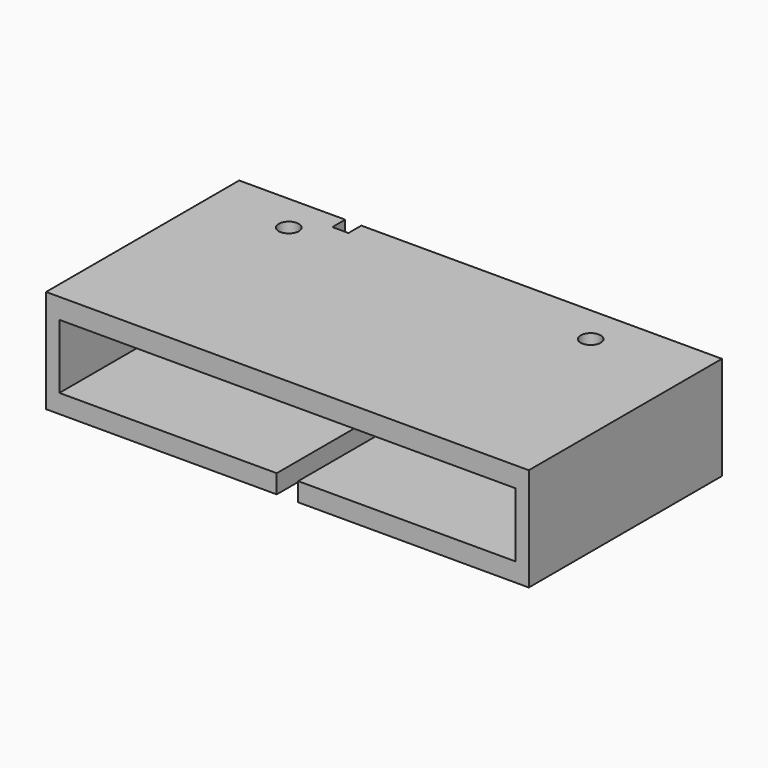
from build123d import *

# Parameters (mm, degrees)
F0_W      = 90
F0_H      = 19.25
F0_W_2    = 85
F0_H_2    = 12
F1_DEPTH  = 45
F0_W_3    = 7.85
F0_H_3    = 4.66
F2_DEPTH  = 14
F0_R      = 1.5
F3_DEPTH  = 8
F5_W      = 4
F5_H      = 29.0582341515
F6_DEPTH  = 3.07077
F5_H_2    = 15.9417658485
F7_DEPTH  = 8.2825263962
F11_DEPTH = 23.33121
F12_DEPTH = 2.5
F14_W     = 3
F14_H     = 4.4074529409
F14_W_2   = 3.907799057
F14_H_2   = 3
F15_DEPTH = 3


with BuildPart() as f1:
    # F0 (on Front) → F1 (new body)
    with BuildSketch(Plane.XZ):
        with Locations((-17.1932545304, 37.9297346771)):
            Rectangle(F0_W, F0_H)
        with Locations((-17.2074458234, 37.7867133319)):
            Rectangle(F0_W_2, F0_H_2, mode=Mode.SUBTRACT)
    extrude(amount=F1_DEPTH)

    # F0 (on Front) → F2 (join)
    with BuildSketch(Plane.XZ):
        with Locations((-17.2074458234, 37.7867133319)):
            Rectangle(F0_W_2, F0_H_2)
        with Locations((-17.2074458234, 37.7867133319)):
            Rectangle(F0_W_3, F0_H_3, mode=Mode.SUBTRACT)
    extrude(amount=F2_DEPTH)

    # F0 (on Front) → F3 (join)
    with BuildSketch(Plane.XZ):
        with Locations((-17.2074458234, 37.7867133319)):
            Rectangle(F0_W_3, F0_H_3)
        with Locations((-17.2074458234, 37.7867133319)):
            Circle(F0_R, mode=Mode.SUBTRACT)
    extrude(amount=F3_DEPTH)

    # F5 (on offset) → F6 (cut)
    with BuildSketch(Plane(origin=(0, 0, 28.3047346771), x_dir=(1, 0, 0), z_dir=(0, 0, -1))):
        with Locations((-17.1932545304, 30.4708829243)):
            Rectangle(F5_W, F5_H)
    extrude(amount=-F6_DEPTH, mode=Mode.SUBTRACT)

    # F5 (on offset) → F7 (cut)
    with BuildSketch(Plane(origin=(0, 0, 28.3047346771), x_dir=(1, 0, 0), z_dir=(0, 0, -1))):
        with Locations((-17.1932545304, 30.4708829243)):
            Rectangle(F5_W, F5_H)
        with Locations((-17.1932545304, 7.9708829243)):
            Rectangle(F5_W, F5_H_2)
    extrude(amount=-F7_DEPTH, mode=Mode.SUBTRACT)

    # F10 (on offset) → F11 (cut)
    with BuildSketch(Plane(origin=(0, 0, 28.3047346771), x_dir=(1, 0, 0), z_dir=(0, 0, -1))):
        with BuildLine():
            Line((-49.1650958551, 7.0774606429), (-45.4150958551, 7.0774606429))
            ThreePointArc((-45.4150958551, 7.0774606429), (-47.2900958551, 8.9524606429), (-49.1650958551, 7.0774606429))
        make_face()
        with BuildLine():
            ThreePointArc((-49.1650958551, 7.0774606429), (-47.2900958551, 5.2024606429), (-45.4150958551, 7.0774606429))
            Line((-45.4150958551, 7.0774606429), (-49.1650958551, 7.0774606429))
        make_face()
        with BuildLine():
            ThreePointArc((10.8743589147, 7.0774606429), (8.9993589147, 8.9524606429), (7.1243589147, 7.0774606429))
            Line((7.1243589147, 7.0774606429), (10.8743589147, 7.0774606429))
        make_face()
        with BuildLine():
            Line((10.8743589147, 7.0774606429), (7.1243589147, 7.0774606429))
            ThreePointArc((7.1243589147, 7.0774606429), (8.9993589147, 5.2024606429), (10.8743589147, 7.0774606429))
        make_face()
    extrude(amount=-F11_DEPTH, mode=Mode.SUBTRACT)

    # F10 (on offset) → F12 (cut)
    with BuildSketch(Plane(origin=(0, 0, 28.3047346771), x_dir=(1, 0, 0), z_dir=(0, 0, -1))):
        with BuildLine():
            Line((7.1243589147, 7.0774606429), (5.4493589147, 7.0774606429))
            ThreePointArc((5.4493589147, 7.0774606429), (8.9993589147, 3.5274606429), (12.5493589147, 7.0774606429))
            Line((12.5493589147, 7.0774606429), (10.8743589147, 7.0774606429))
            ThreePointArc((10.8743589147, 7.0774606429), (8.9993589147, 5.2024606429), (7.1243589147, 7.0774606429))
        make_face()
        with BuildLine():
            ThreePointArc((12.5493589147, 7.0774606429), (8.9993589147, 10.6274606429), (5.4493589147, 7.0774606429))
            Line((5.4493589147, 7.0774606429), (7.1243589147, 7.0774606429))
            ThreePointArc((7.1243589147, 7.0774606429), (8.9993589147, 8.9524606429), (10.8743589147, 7.0774606429))
            Line((10.8743589147, 7.0774606429), (12.5493589147, 7.0774606429))
        make_face()
        with BuildLine():
            Line((-43.7400958551, 7.0774606429), (-45.4150958551, 7.0774606429))
            ThreePointArc((-45.4150958551, 7.0774606429), (-47.2900958551, 5.2024606429), (-49.1650958551, 7.0774606429))
            Line((-49.1650958551, 7.0774606429), (-50.8400958551, 7.0774606429))
            ThreePointArc((-50.8400958551, 7.0774606429), (-47.2900958551, 3.5274606429), (-43.7400958551, 7.0774606429))
        make_face()
        with BuildLine():
            ThreePointArc((-49.1650958551, 7.0774606429), (-47.2900958551, 8.9524606429), (-45.4150958551, 7.0774606429))
            Line((-45.4150958551, 7.0774606429), (-43.7400958551, 7.0774606429))
            ThreePointArc((-43.7400958551, 7.0774606429), (-47.2900958551, 10.6274606429), (-50.8400958551, 7.0774606429))
            Line((-50.8400958551, 7.0774606429), (-49.1650958551, 7.0774606429))
        make_face()
    extrude(amount=-F12_DEPTH, mode=Mode.SUBTRACT)

    # F14 (on face) → F15 (cut)
    with BuildSketch(Plane.XZ):
        Polygon((-21.1324458234, 36.2700645477), (-21.1324458234, 39.2700645477), (-39.4217026339, 39.2700645477), (-39.4217026339, 43.7867133319), (-42.4217026339, 43.7867133319), (-42.4217026339, 39.2700645477), (-42.4217026339, 36.2700645477), (-39.4217026339, 36.2700645477), align=None)
        with Locations((-40.9217026339, 45.9904398024)):
            Rectangle(F14_W, F14_H)
        with Locations((-19.1785462949, 37.7700645477)):
            Rectangle(F14_W_2, F14_H_2)
    extrude(amount=F15_DEPTH, mode=Mode.SUBTRACT)


solid = f1.part
